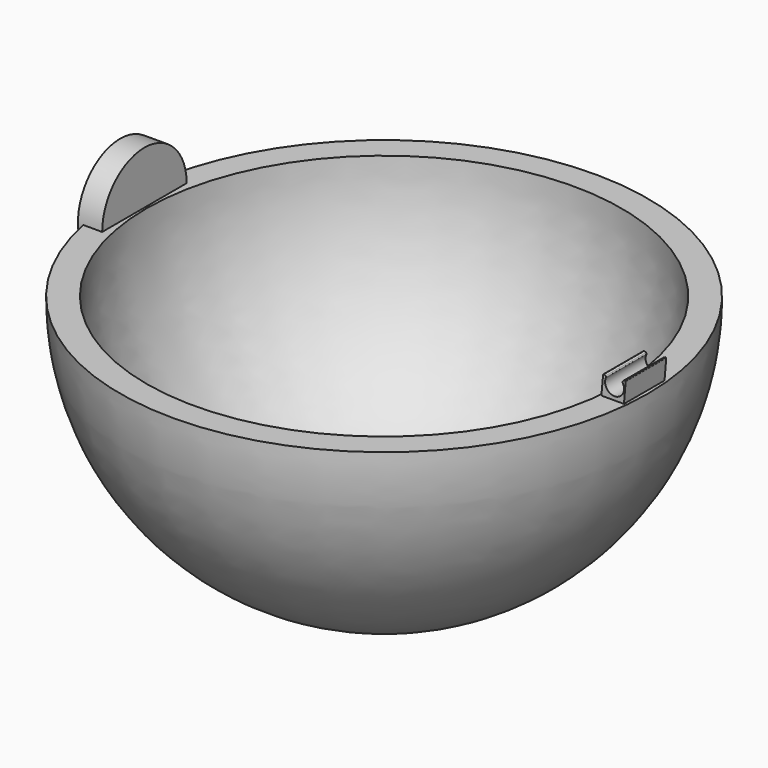
from build123d import *

# Parameters (mm, degrees)
F3_DEPTH = 6.096
F5_R     = 12.7
F6_DEPTH = 5.842


with BuildPart() as f1:
    # F0 (on Front) → F1 (revolve)
    with BuildSketch(Plane.XZ):
        with BuildLine():
            Line((-57.149999, 0), (-63.5, 0))
            ThreePointArc((-63.5, 0), (-44.901281, -44.901281), (0, -63.5))
            Line((0, -63.5), (0, -57.149999))
            ThreePointArc((0, -57.149999), (-40.411152, -40.411152), (-57.149999, 0))
        make_face()
    revolve(axis=Axis((0, 0, -60.325), (0, 0, -1)))

    # F2 (on Front) → F3 (join, symmetric)
    with BuildSketch(Plane.XZ):
        with BuildLine():
            Line((57.15, 0), (62.589005, 0))
            Line((62.589005, 0), (63.004319, 4.873194))
            ThreePointArc((63.004319, 4.873194), (62.944596, 5.001839), (62.803429, 5.015553))
            Line((62.803429, 5.015553), (62.472217, 4.866524))
            ThreePointArc((62.472217, 4.866524), (62.265701, 4.635267), (62.299473, 4.327065))
            ThreePointArc((62.299473, 4.327065), (60.423073, 0.891105), (58.259036, 4.153564))
            ThreePointArc((58.259036, 4.153564), (58.270459, 4.342586), (58.147942, 4.486979))
            Line((58.147942, 4.486979), (57.781482, 4.680184))
            ThreePointArc((57.781482, 4.680184), (57.646833, 4.679411), (57.57268, 4.567018))
            Line((57.57268, 4.567018), (57.15, 0))
        make_face()
    extrude(amount=F3_DEPTH, both=True)

    # F5 (on offset) → F6 (join)
    with BuildSketch(Plane.YZ.offset(-63.5)):
        Circle(F5_R)
    extrude(amount=F6_DEPTH)


solid = f1.part
